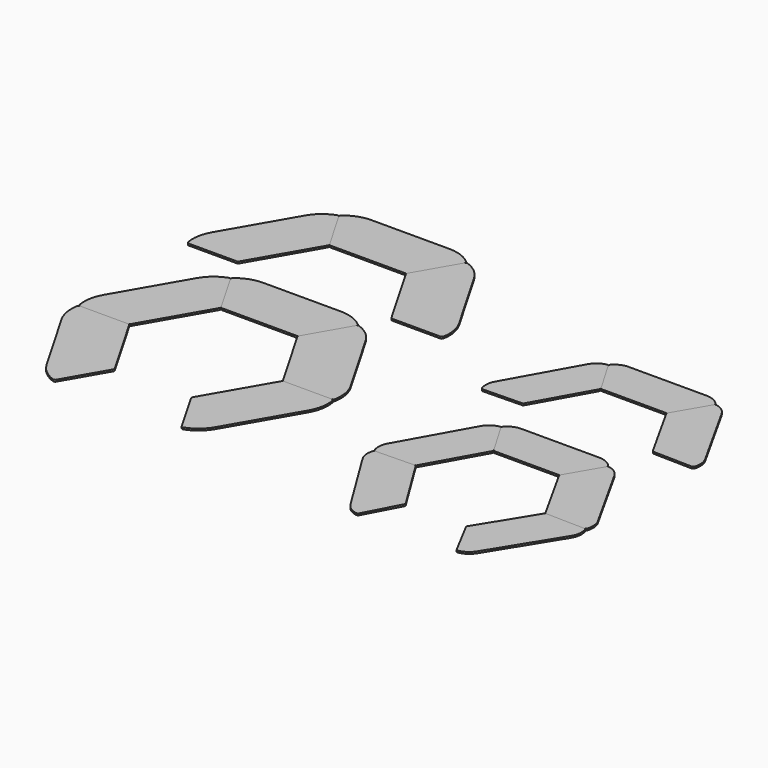
from build123d import *

# Parameters (mm, degrees)
F1_DEPTH = 25.4
F8_DEPTH = 25.4


with BuildPart() as f1:
    # F0 (on Top) → F1 (new body)
    with BuildSketch(Plane.XY):
        with BuildLine():
            ThreePointArc((-1097.3281615472, -40.3484678267), (-1086.0510312398, -51.6240779074), (-1070.647130321, -55.7511697578))
            Line((-1070.647130321, -55.7511697578), (-543.660630321, -55.7511697578))
            Line((-543.660630321, -55.7511697578), (-543.660630321, 584.3288302422))
            Line((-543.660630321, 584.3288302422), (-543.660630321, 706.2488302422))
            Line((-543.660630321, 706.2488302422), (-1096.047130321, 706.2488302422))
            ThreePointArc((-1096.047130321, 706.2488302422), (-1273.4472158458, 675.0677270408), (-1429.5818270973, 585.2621887347))
            ThreePointArc((-1429.5818270973, 585.2621887347), (-1439.9994869632, 567.2850351011), (-1436.4012394322, 546.82145026))
            Line((-1436.4012394322, 546.82145026), (-1097.3281615472, -40.3484678267))
        make_face()
        with BuildLine():
            Line((-543.660630321, 584.3288302422), (-543.660630321, -55.7511697578))
            Line((-543.660630321, -55.7511697578), (-16.674130321, -55.7511697578))
            ThreePointArc((-16.674130321, -55.7511697578), (-1.2702294021, -51.6240779074), (10.0069009053, -40.3484678267))
            Line((10.0069009053, -40.3484678267), (349.2698631847, 547.1502714245))
            ThreePointArc((349.2698631847, 547.1502714245), (352.8621656052, 567.6472599499), (342.3983259569, 585.6344563715))
            ThreePointArc((342.3983259569, 585.6344563715), (186.1273460418, 675.1697710406), (8.725869679, 706.2488302422))
            Line((8.725869679, 706.2488302422), (-543.660630321, 706.2488302422))
            Line((-543.660630321, 706.2488302422), (-543.660630321, 584.3288302422))
        make_face()
    extrude(amount=F1_DEPTH)


with BuildPart() as f2_1:
    # F2: instance of F1
    add(f1.part.mirror(Plane(origin=(-1266.8647004897, 253.2364912166, 12.7), x_dir=(0.5000778336, -0.8659804619, 0), z_dir=(-0.8659804619, -0.5000778336, 0))))


with BuildPart() as f3_1:
    # F3: instance of F1
    add(f1.part.mirror(Plane(origin=(179.638382045, 253.4009017989, 12.7), x_dir=(0.5000778336, 0.8659804619, 0), z_dir=(0.8659804619, -0.5000778336, 0))))


with BuildPart() as f4_1:
    # F4: copy of F1
    add(f1.part.moved(Location((0, -1925.32, 0))))


with BuildPart() as f5_1:
    # F5: instance of F4_1
    add(f4_1.part.mirror(Plane(origin=(-1266.8647004897, -1672.0835087834, 12.7), x_dir=(0.5000778336, -0.8659804619, 0), z_dir=(-0.8659804619, -0.5000778336, 0))))


with BuildPart() as f6_1:
    # F6: instance of F5_1
    add(f5_1.part.mirror(Plane(origin=(-1990.033449651, -2924.8397320965, 12.7), x_dir=(0.9999999636, 0.0002696305, 0), z_dir=(0.0002696305, -0.9999999636, 0))))


with BuildPart() as f8:
    # F7 (on Top) → F8 (new body)
    with BuildSketch(Plane.XY):
        with BuildLine():
            Line((3885.6328725815, -365.7487852694), (3885.6328725815, -869.8676652694))
            Line((3885.6328725815, -869.8676652694), (4337.0670725815, -869.8676652694))
            ThreePointArc((4337.0670725815, -869.8676652694), (4349.6859707925, -866.5113357428), (4358.9699728887, -857.3293509339))
            Line((4358.9699728887, -857.3293509339), (4635.5291899257, -386.3608388894))
            ThreePointArc((4635.5291899257, -386.3608388894), (4639.5493103012, -367.9376081929), (4631.9049860729, -350.6998268907))
            ThreePointArc((4631.9049860729, -350.6998268907), (4544.1249223573, -286.9731200727), (4438.0193725815, -264.4332652694))
            Line((4438.0193725815, -264.4332652694), (3885.6328725815, -264.4332652694))
            Line((3885.6328725815, -264.4332652694), (3885.6328725815, -365.7487852694))
        make_face()
        with BuildLine():
            ThreePointArc((3412.2957722743, -857.3293509339), (3421.5797743704, -866.5113357428), (3434.1986725815, -869.8676652694))
            Line((3434.1986725815, -869.8676652694), (3885.6328725815, -869.8676652694))
            Line((3885.6328725815, -869.8676652694), (3885.6328725815, -365.7487852694))
            Line((3885.6328725815, -365.7487852694), (3885.6328725815, -264.4332652694))
            Line((3885.6328725815, -264.4332652694), (3333.2463725815, -264.4332652694))
            ThreePointArc((3333.2463725815, -264.4332652694), (3227.1408228057, -286.9731200727), (3139.3607590901, -350.6998268907))
            ThreePointArc((3139.3607590901, -350.6998268907), (3131.7164348618, -367.9376081929), (3135.7365552373, -386.3608388894))
            Line((3135.7365552373, -386.3608388894), (3412.2957722743, -857.3293509339))
        make_face()
    extrude(amount=F8_DEPTH)


with BuildPart() as f9_1:
    # F9: instance of F8
    add(f8.part.mirror(Plane(origin=(3274.0161637558, -621.8450949117, 12.7), x_dir=(0.5063655773, -0.8623189097, 0), z_dir=(-0.8623189097, -0.5063655773, 0))))


with BuildPart() as f10_1:
    # F10: instance of F8
    add(f8.part.mirror(Plane(origin=(4497.2495814072, -621.8450949117, 12.7), x_dir=(0.5063655773, 0.8623189097, 0), z_dir=(0.8623189097, -0.5063655773, 0))))


with BuildPart() as f11_1:
    # F11: copy of F8
    add(f8.part.moved(Location((0, -1905, 0))))


with BuildPart() as f12_1:
    # F12: instance of F11_1
    add(f11_1.part.mirror(Plane(origin=(3274.0161637558, -2526.8450949117, 12.7), x_dir=(0.5063655773, -0.8623189097, 0), z_dir=(-0.8623189097, -0.5063655773, 0))))


with BuildPart() as f13_1:
    # F13: instance of F12_1
    add(f12_1.part.mirror(Plane(origin=(2678.0717610299, -3595.0914442706, 12.7), x_dir=(0.9997558448, 0.0220963975, 0), z_dir=(0.0220963975, -0.9997558448, 0))))


with BuildPart() as f14_1:
    # F14: instance of F4_1
    add(f4_1.part.mirror(Plane(origin=(179.638382045, -1671.9190982011, 12.7), x_dir=(0.5000778336, 0.8659804619, 0), z_dir=(0.8659804619, -0.5000778336, 0))))


with BuildPart() as f15_1:
    # F15: instance of F11_1
    add(f11_1.part.mirror(Plane(origin=(4497.2495814072, -2526.8450949117, 12.7), x_dir=(0.5063655773, 0.8623189097, 0), z_dir=(0.8623189097, -0.5063655773, 0))))


with BuildPart() as f16_1:
    # F16: instance of F15_1
    add(f15_1.part.mirror(Plane(origin=(5093.1939841331, -3595.0914442706, 12.7), x_dir=(0.9997558448, -0.0220963975, 0), z_dir=(-0.0220963975, -0.9997558448, 0))))


with BuildPart() as f17_1:
    # F17: instance of F14_1
    add(f14_1.part.mirror(Plane(origin=(902.5223341758, -2924.8396809058, 12.7), x_dir=(0.9999999636, -0.0002696305, 0), z_dir=(-0.0002696305, -0.9999999636, 0))))


solid = Compound([f1.part, f2_1.part, f3_1.part, f4_1.part, f5_1.part, f6_1.part, f8.part, f9_1.part, f10_1.part, f11_1.part, f12_1.part, f13_1.part, f14_1.part, f15_1.part, f16_1.part, f17_1.part])
